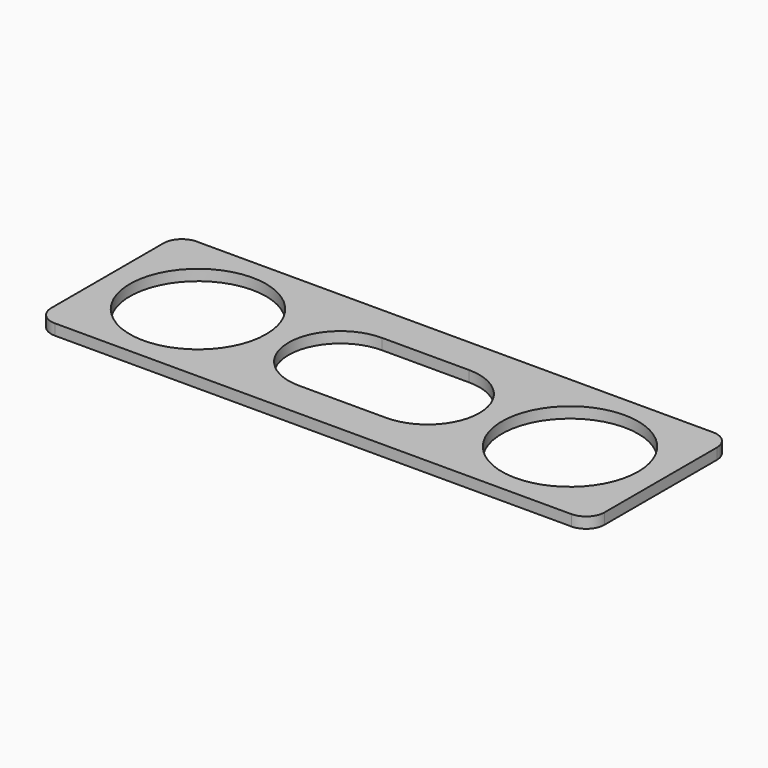
from build123d import *

# Parameters (mm, degrees)
F0_R     = 25
F1_DEPTH = 4


with BuildPart() as f1:
    # F0 (on Top) → F1 (new body)
    with BuildSketch(Plane.XY):
        with BuildLine():
            Line((-94.75, -32.5), (94.75, -32.5))
            ThreePointArc((94.75, -32.5), (99.522971, -30.522971), (101.5, -25.75))
            Line((101.5, -25.75), (101.5, 25.75))
            ThreePointArc((101.5, 25.75), (99.522971, 30.522971), (94.75, 32.5))
            Line((94.75, 32.5), (-94.75, 32.5))
            ThreePointArc((-94.75, 32.5), (-99.522971, 30.522971), (-101.5, 25.75))
            Line((-101.5, 25.75), (-101.5, -25.75))
            ThreePointArc((-101.5, -25.75), (-99.522971, -30.522971), (-94.75, -32.5))
        make_face()
        with Locations((-68.25, 0)):
            Circle(F0_R, mode=Mode.SUBTRACT)
        with BuildLine():
            ThreePointArc((16, 19), (35, 0), (16, -19))
            Line((16, -19), (-16, -19))
            ThreePointArc((-16, -19), (-35, 0), (-16, 19))
            Line((-16, 19), (16, 19))
        make_face(mode=Mode.SUBTRACT)
        with Locations((68.25, 0)):
            Circle(F0_R, mode=Mode.SUBTRACT)
    extrude(amount=F1_DEPTH)


solid = f1.part
